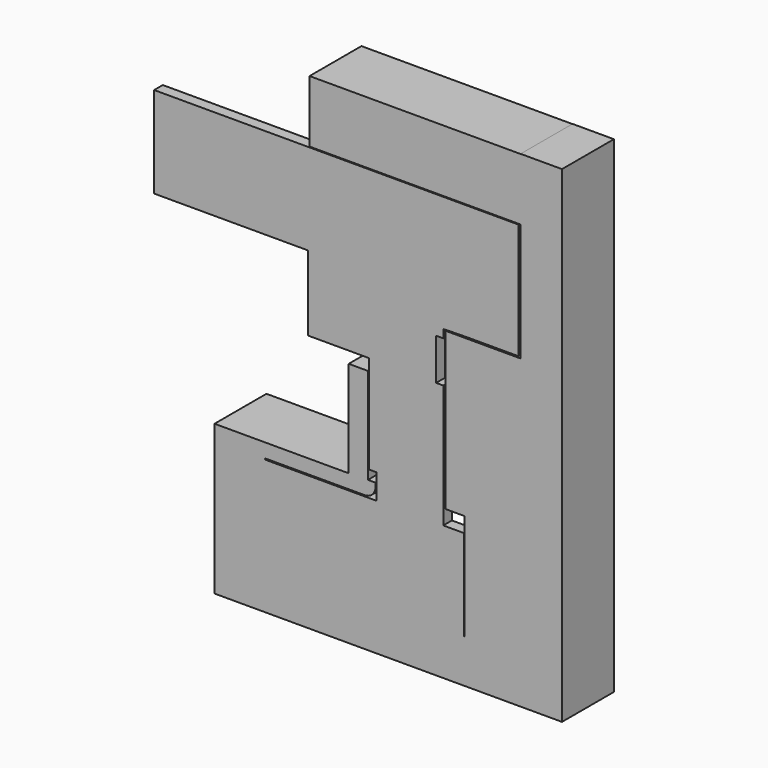
from build123d import *

# Parameters (mm, degrees)
F1_W     = 123.9689588547
F1_H     = 36.4573895931
F1_W_2   = 0.162653625
F1_W_3   = 29.5906402171
F1_H_2   = 8.2422317937
F1_W_4   = 49.1941384971
F1_W_5   = 22.0608375967
F1_H_3   = 15.7345682383
F2_DEPTH = 38.1
F0_W     = 4.2057580379
F0_H     = 0.258524442
F0_H_2   = 4.8711853978
F0_W_2   = 4.3841055594
F0_H_3   = 57.6105192304
F3_DEPTH = 6.35


with BuildPart() as f2:
    # F1 (on Front) → F2 (new body)
    with BuildSketch(Plane.XZ):
        with Locations((29.8835039139, 199.447914958)):
            Rectangle(F1_W, F1_H)
        Polygon((-9.1060101986, 25.0596683472), (-9.1060101986, 20.0354661793), (2.2110529244, 20.0354661793), (2.2110529244, 76.3713121414), (-9.1060101986, 76.3713121414), align=None)
        Polygon((92.0306369662, 181.2192201614), (91.8679833412, 181.2192201614), (91.8679833412, 111.9364649057), (116.1640360951, 111.9364649057), (116.1640360951, 217.7610099316), (91.8679833412, 217.7610099316), (91.8679833412, 217.6766097546), (92.0306369662, 217.6766097546), align=None)
        with Locations((91.9493101537, 199.447914958)):
            Rectangle(F1_W_2, F1_H)
        Polygon((-87.8907889128, -68.0502578616), (-58.3001486957, -68.0502578616), (-58.3001486957, -42.4493700266), (-58.3001486957, 11.523572728), (-87.8907889128, 11.523572728), align=None)
        with Locations((-73.0954688042, 15.6446886249)):
            Rectangle(F1_W_3, F1_H_2)
        with BuildLine():
            Line((-9.1060101986, 19.7658045217), (-9.1060101986, 11.523572728))
            Line((-9.1060101986, 11.523572728), (0.2991169855, 11.523572728))
            ThreePointArc((0.2991169855, 11.523572728), (4.789245046, 13.3834446675), (6.6491169855, 17.873572728))
            Line((6.6491169855, 17.873572728), (6.6491169855, 20.0354661793))
            Line((6.6491169855, 20.0354661793), (2.2110529244, 20.0354661793))
            Line((2.2110529244, 20.0354661793), (-9.1060101986, 20.0354661793))
            Line((-9.1060101986, 20.0354661793), (-9.1060101986, 19.7658045217))
        make_face()
        with Locations((-33.7030794472, 15.6446886249)):
            Rectangle(F1_W_4, F1_H_2)
        with Locations((58.7894786149, 99.1525352001)):
            Rectangle(F1_W_5, F1_H_3)
        Polygon((69.8198974133, 91.285251081), (47.7590598166, 91.285251081), (47.7206557989, 91.285251081), (47.7206557989, 19.7658045217), (58.7702766061, 19.7658045217), (69.8198974133, 19.7658045217), align=None)
        Polygon((69.8198974133, -42.4493700266), (69.8198974133, 19.7658045217), (58.7702766061, 19.7658045217), (58.7702766061, 19.5491779596), (58.7702766061, -42.4493700266), align=None)
        Polygon((-58.3001486957, -68.0502578616), (69.8198974133, -68.0502578616), (69.8198974133, -42.4493700266), (58.7702766061, -42.4493700266), (-58.3001486957, -42.4493700266), align=None)
        Polygon((116.1640360951, 111.9364649057), (91.8679833412, 111.9364649057), (47.6743020117, 111.9364649057), (47.6743020117, 107.0198193192), (47.7590598166, 107.0198193192), (69.8198974133, 107.0198193192), (116.1640360951, 107.0198193192), align=None)
        Polygon((116.1640360951, -68.0502578616), (116.1640360951, 107.0198193192), (69.8198974133, 107.0198193192), (69.8198974133, 91.285251081), (69.8198974133, 19.7658045217), (69.8198974133, -42.4493700266), (69.8198974133, -68.0502578616), align=None)
    extrude(amount=-F2_DEPTH)

    # F0 (on Front) → F3 (join)
    with BuildSketch(Plane.XZ):
        Polygon((60.6123084808, 112.7149015665), (90.5843084808, 112.7149015665), (90.5843084808, 180.7640045881), (-33.110268414, 180.7640045881), (-33.110268414, 127.2203028202), (-33.110268414, 112.7149015665), (2.749980893, 112.7149015665), (42.2322228551, 112.7149015665), (46.437980893, 112.7149015665), align=None)
        Polygon((46.437980893, 112.4563771245), (60.6123084808, 112.7149015665), (46.437980893, 112.7149015665), align=None)
        Polygon((-33.110268414, 127.2203028202), (-33.110268414, 180.7640045881), (-123.3842537674, 180.7640045881), (-123.3842537674, 127.2203028202), (-118.7781766057, 127.2203028202), align=None)
        with Locations((44.335101874, 112.5856393455)):
            Rectangle(F0_W, F0_H)
        with Locations((44.335101874, 110.0207844256)):
            Rectangle(F0_W, F0_H_2)
        Polygon((42.2322228551, 107.5851917267), (42.2322228551, 112.4563771245), (7.1340864524, 112.4563771245), (7.1340864524, 83.1997692585), (42.2322228551, 83.1997692585), align=None)
        Polygon((7.1340864524, 112.4563771245), (42.2322228551, 112.4563771245), (42.2322228551, 112.7149015665), (2.749980893, 112.7149015665), (-33.110268414, 112.7149015665), (-33.110268414, 83.1997692585), (2.749980893, 83.1997692585), (7.1340864524, 83.1997692585), align=None)
        Polygon((46.437980893, 83.1997692585), (42.2322228551, 83.1997692585), (7.1340864524, 83.1997692585), (7.1340864524, 25.5892500281), (7.1340864524, 10.8563771245), (46.437980893, 10.8563771245), align=None)
        with Locations((4.9420336727, 54.3945096433)):
            Rectangle(F0_W_2, F0_H_3)
        Polygon((58.5113357362, 10.8563771245), (46.437980893, 10.8563771245), (7.1340864524, 10.8563771245), (2.749980893, 10.8563771245), (-58.3286642638, 10.8563771245), (-58.3286642638, -42.4836228755), (58.5113357362, -42.4836228755), align=None)
    extrude(amount=-F3_DEPTH)


solid = f2.part
